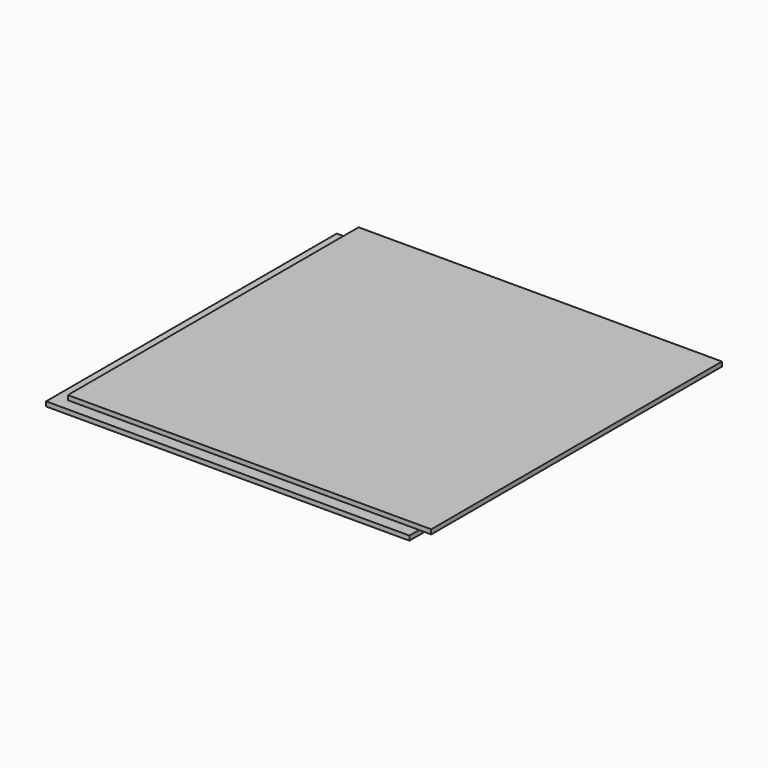
from build123d import *

# Parameters (mm, degrees)
F0_W     = 1524
F0_H     = 1524
F1_DEPTH = 19.05
F3_DEPTH = 19.05
F4_W     = 50.8
F4_H     = 1270
F5_DEPTH = 19.05


with BuildPart() as f1:
    # F0 (on Top) → F1 (new body)
    with BuildSketch(Plane.XY):
        Rectangle(F0_W, F0_H)
    extrude(amount=F1_DEPTH)


with BuildPart() as f3:
    # F2 (on face) → F3 (new body)
    with BuildSketch(Plane(origin=(0, 0, 0), x_dir=(1, 0, 0), z_dir=(0, 0, -1))):
        Polygon((-812.8, 812.8), (-812.8, 762), (-812.8, 711.2), (-812.8, -711.2), (-711.2, -711.2), (-711.2, 711.2), (711.2, 711.2), (711.2, 812.8), align=None)
    extrude(amount=F3_DEPTH)


with BuildPart() as f5:
    # F4 (on face) → F5 (new body)
    with BuildSketch(Plane(origin=(0, 0, 0), x_dir=(1, 0, 0), z_dir=(0, 0, -1))):
        Rectangle(F4_W, F4_H)
        with Locations((-304.8, 0)):
            Rectangle(F4_W, F4_H)
        with Locations((304.8, 0)):
            Rectangle(F4_W, F4_H)
    extrude(amount=F5_DEPTH)


solid = Compound([f1.part, f3.part, f5.part])
